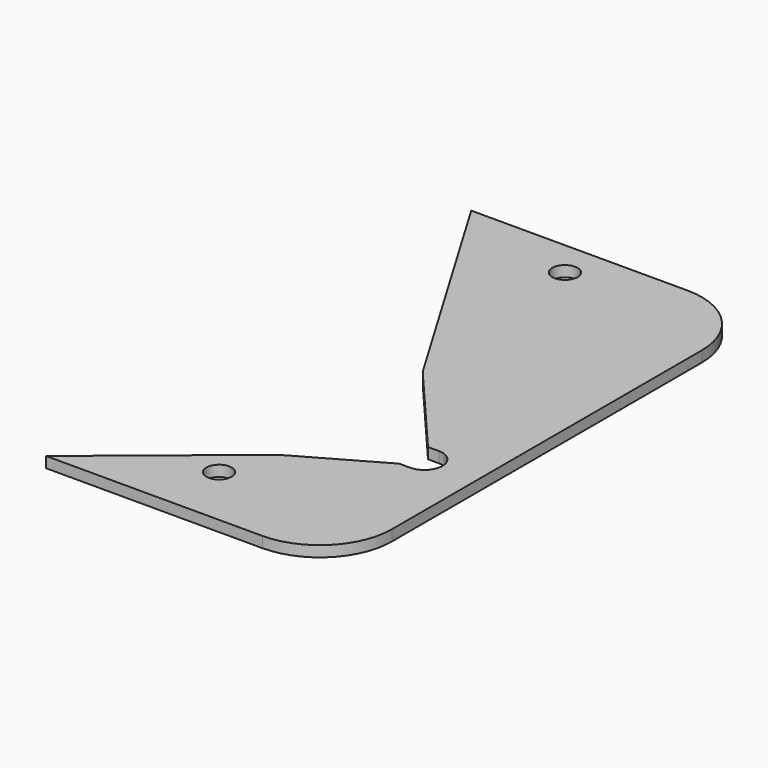
from build123d import *

# Parameters (mm, degrees)
F0_R     = 4.445
F1_DEPTH = 3.81
F2_R     = 25.4


with BuildPart() as f1:
    # F0 (on Top) → F1 (new body)
    with BuildSketch(Plane.XY):
        with BuildLine():
            Line((49.53, 40.524545), (0, 0))
            Line((0, 0), (101.6, 0))
            Line((101.6, 0), (101.6, 187.325))
            Line((101.6, 187.325), (0, 187.325))
            Line((0, 187.325), (49.53, 104.024545))
            Line((49.53, 104.024545), (78.74, 69.85))
            Line((78.74, 69.85), (82.55, 69.85))
            ThreePointArc((82.55, 69.85), (87.040128, 67.990128), (88.9, 63.5))
            ThreePointArc((88.9, 63.5), (87.040128, 59.009872), (82.55, 57.15))
            Line((82.55, 57.15), (78.74, 57.15))
            Line((78.74, 57.15), (49.53, 40.524545))
        make_face()
        with Locations((43.18, 22.225)):
            Circle(F0_R, mode=Mode.SUBTRACT)
        with Locations((43.18, 174.625)):
            Circle(F0_R, mode=Mode.SUBTRACT)
        with BuildLine():
            Line((49.53, 40.524545), (0, 0))
            Line((0, 0), (101.6, 0))
            Line((101.6, 0), (101.6, 187.325))
            Line((101.6, 187.325), (0, 187.325))
            Line((0, 187.325), (49.53, 104.024545))
            Line((49.53, 104.024545), (78.74, 69.85))
            Line((78.74, 69.85), (82.55, 69.85))
            ThreePointArc((82.55, 69.85), (87.040128, 67.990128), (88.9, 63.5))
            ThreePointArc((88.9, 63.5), (87.040128, 59.009872), (82.55, 57.15))
            Line((82.55, 57.15), (78.74, 57.15))
            Line((78.74, 57.15), (49.53, 40.524545))
        make_face()
        with Locations((43.18, 22.225)):
            Circle(F0_R, mode=Mode.SUBTRACT)
        with Locations((43.18, 174.625)):
            Circle(F0_R, mode=Mode.SUBTRACT)
    extrude(amount=F1_DEPTH)

    # F2
    f2_edges = [f1.edges().sort_by_distance(p)[0] for p in [
        (101.6, 187.325, 1.905),
        (101.6, 0, 1.905),
        (49.53, 104.024545, 1.905),
        (49.53, 40.524545, 1.905),
    ]]
    fillet(f2_edges, radius=F2_R)


solid = f1.part
